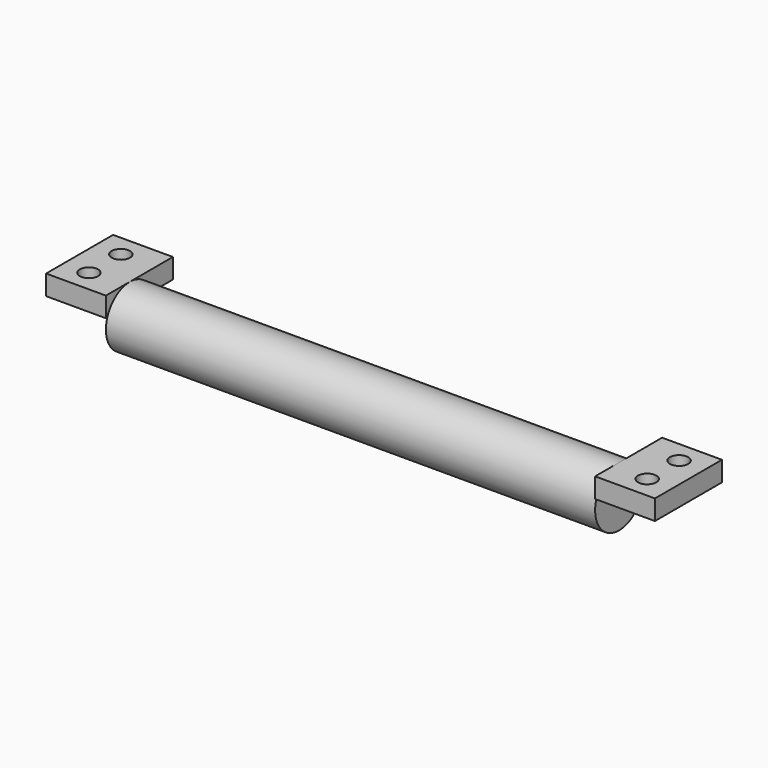
from build123d import *

# Parameters (mm, degrees)
SKETCH_W     = 15
SKETCH_H     = 21
SKETCH_R     = 2.3
PAD_DEPTH    = 5
SKETCH001_R  = 7.5
PAD001_DEPTH = 122.7
SKETCH002_W  = 15
SKETCH002_H  = 21
SKETCH002_R  = 2.3
PAD002_DEPTH = 5


with BuildPart() as part:
    # Sketch → Pad (new body)
    with BuildSketch(Plane.XY):
        with Locations((7.5, 10.5)):
            Rectangle(SKETCH_W, SKETCH_H)
        with Locations((6.35, 5.5)):
            Circle(SKETCH_R, mode=Mode.SUBTRACT)
        with Locations((6.35, 15.5)):
            Circle(SKETCH_R, mode=Mode.SUBTRACT)
    extrude(amount=PAD_DEPTH)

    # Sketch001 (on Face2 of Pad) → Pad001 (join)
    with BuildSketch(Plane.YZ.offset(15)):
        with Locations((7.5, -2.5)):
            Circle(SKETCH001_R)
    extrude(amount=PAD001_DEPTH)

    # Sketch002 → Pad002 (join)
    with BuildSketch(Plane.XY):
        with Locations((145.2, 10.5)):
            Rectangle(SKETCH002_W, SKETCH002_H)
        with Locations((146.35, 5.5)):
            Circle(SKETCH002_R, mode=Mode.SUBTRACT)
        with Locations((146.35, 15.5)):
            Circle(SKETCH002_R, mode=Mode.SUBTRACT)
    extrude(amount=PAD002_DEPTH)


solid = part.part
